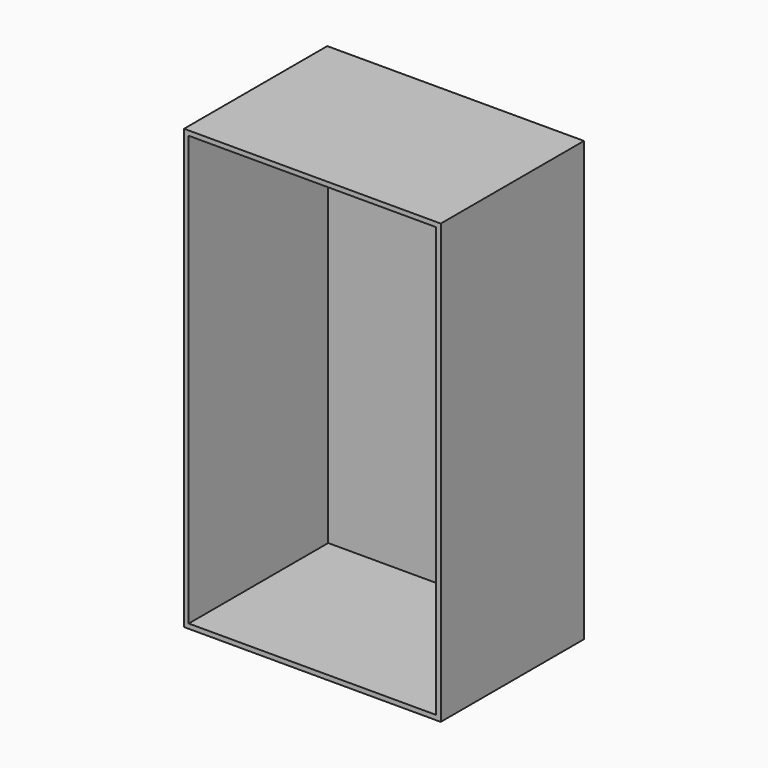
from build123d import *

# Parameters (mm, degrees)
F1_W     = 1100
F1_H     = 1880
F1_W_2   = 1060
F1_H_2   = 1840
F2_DEPTH = 747
F3_W     = 1100
F3_H     = 1880
F4_DEPTH = 20


with BuildPart() as f2:
    # F1 (on face) → F2 (new body)
    with BuildSketch(Plane.XZ):
        with Locations((530, 920)):
            Rectangle(F1_W, F1_H)
        with Locations((530, 920)):
            Rectangle(F1_W_2, F1_H_2, mode=Mode.SUBTRACT)
    extrude(amount=F2_DEPTH)

    # F3 (on face) → F4 (join)
    with BuildSketch(Plane(origin=(0, 0, 0), x_dir=(-1, 0, 0), z_dir=(0, 1, 0))):
        with Locations((-530, 920)):
            Rectangle(F3_W, F3_H)
    extrude(amount=F4_DEPTH)


solid = f2.part
